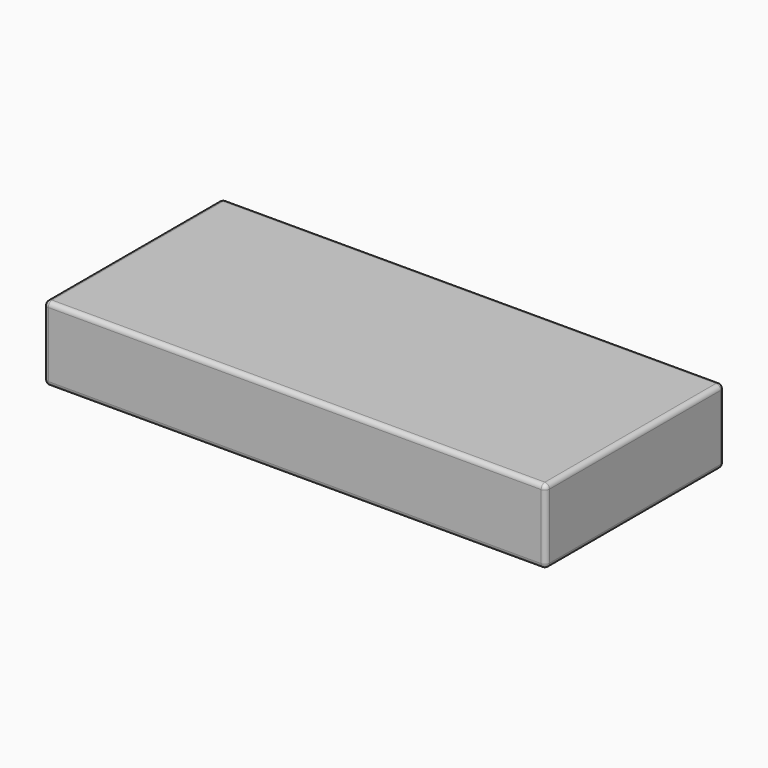
from build123d import *

# Parameters (mm, degrees)
F0_W     = 50
F0_H     = 20
F1_DEPTH = 2
F2_W     = 54
F2_H     = 24
F2_W_2   = 50
F2_H_2   = 20
F3_DEPTH = 8
F4_R     = 0.5


with BuildPart() as f1:
    # F0 (on Top) → F1 (new body)
    with BuildSketch(Plane.XY):
        with Locations((-29.275745, 24.148707)):
            Rectangle(F0_W, F0_H)
    extrude(amount=F1_DEPTH)

    # F2 (on face) → F3 (join)
    with BuildSketch(Plane.XY.offset(2)):
        with Locations((-29.275745, 24.148707)):
            Rectangle(F2_W, F2_H)
        with Locations((-29.275745, 24.148707)):
            Rectangle(F2_W_2, F2_H_2, mode=Mode.SUBTRACT)
    extrude(amount=-F3_DEPTH)

    # F4
    f4_edges = [f1.edges().sort_by_distance(p)[0] for p in [
        (-29.275745, 12.148707, -6),
        (-29.275745, 14.148707, -6),
        (-56.275745, 24.148707, -6),
        (-54.275745, 24.148707, -6),
        (-29.275745, 36.148707, -6),
        (-29.275745, 34.148707, -6),
        (-4.275745, 24.148707, -6),
        (-2.275745, 24.148707, -6),
        (-4.275745, 24.148707, 0),
        (-29.275745, 14.148707, 0),
        (-4.275745, 14.148707, -3),
        (-29.275745, 34.148707, 0),
        (-4.275745, 34.148707, -3),
        (-54.275745, 24.148707, 0),
        (-54.275745, 34.148707, -3),
        (-54.275745, 14.148707, -3),
        (-29.275745, 36.148707, 2),
        (-2.275745, 36.148707, -2),
        (-2.275745, 24.148707, 2),
        (-2.275745, 12.148707, -2),
        (-29.275745, 12.148707, 2),
        (-56.275745, 12.148707, -2),
        (-56.275745, 36.148707, -2),
        (-56.275745, 24.148707, 2),
    ]]
    fillet(f4_edges, radius=F4_R)


solid = f1.part
